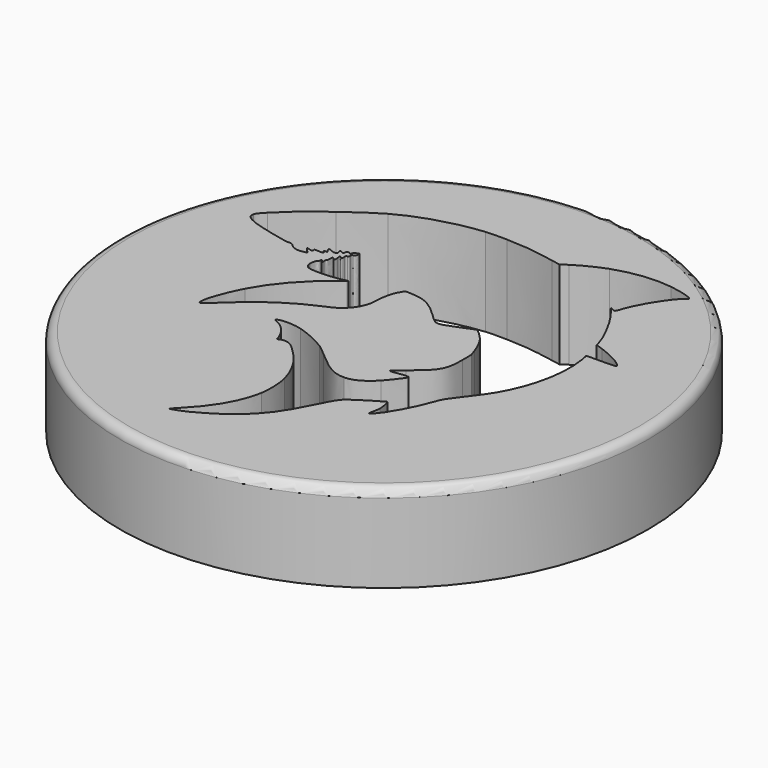
from build123d import *

# Parameters (mm, degrees)
EXTRUDE_DEPTH  = 10
CYLINDER_R     = 30
CYLINDER_DEPTH = 10
FILLET_R       = 1


with BuildPart() as extrude_body:
    # Sketch → Extrude (new body)
    with BuildSketch(Plane.XY):
        with BuildLine():
            add(Edge.make_bspline(
                [(22.984205, -48.652388), (25.133733, -46.478486), (26.399824, -44.244971), (26.804689, -41.912653)],
                knots=[0, 0, 0, 0, 1, 1, 1, 1], degree=3))
            add(Edge.make_bspline(
                [(26.804689, -41.912653), (26.970407, -40.957991), (26.90895, -39.400838), (26.669674, -38.491792)],
                knots=[0, 0, 0, 0, 1, 1, 1, 1], degree=3))
            add(Edge.make_bspline(
                [(26.669674, -38.491792), (26.336607, -37.226418), (25.74933, -36.053291), (24.916394, -34.989479)],
                knots=[0, 0, 0, 0, 1, 1, 1, 1], degree=3))
            add(Edge.make_bspline(
                [(24.916394, -34.989479), (24.347764, -34.263237), (23.176017, -33.132178), (22.81709, -32.96307)],
                knots=[0, 0, 0, 0, 1, 1, 1, 1], degree=3))
            add(Edge.make_bspline(
                [(22.81709, -32.96307), (22.423525, -32.777647), (21.947622, -32.743775), (21.680044, -32.882143)],
                knots=[0, 0, 0, 0, 1, 1, 1, 1], degree=3))
            add(Edge.make_bspline(
                [(21.680044, -32.882143), (21.408524, -33.022554), (21.385723, -33.022199), (21.385723, -32.877571)],
                knots=[0, 0, 0, 0, 1, 1, 1, 1], degree=3))
            add(Edge.make_bspline(
                [(21.385723, -32.877571), (21.385723, -32.813171), (21.258077, -32.49676), (21.102062, -32.17444)],
                knots=[0, 0, 0, 0, 1, 1, 1, 1], degree=3))
            add(Edge.make_bspline(
                [(21.102062, -32.17444), (20.724642, -31.394685), (20.076881, -30.724148), (19.377043, -30.388758)],
                knots=[0, 0, 0, 0, 1, 1, 1, 1], degree=3))
            add(Edge.make_bspline(
                [(19.377043, -30.388758), (18.895314, -30.157894), (18.885561, -30.148217), (19.056288, -30.070431)],
                knots=[0, 0, 0, 0, 1, 1, 1, 1], degree=3))
            add(Edge.make_bspline(
                [(19.056288, -30.070431), (19.585554, -29.829277), (20.747576, -29.84478), (21.769749, -30.106626)],
                knots=[0, 0, 0, 0, 1, 1, 1, 1], degree=3))
            add(Edge.make_bspline(
                [(21.769749, -30.106626), (22.703549, -30.345829), (24.236975, -31.036204), (25.166711, -31.635988)],
                knots=[0, 0, 0, 0, 1, 1, 1, 1], degree=3))
            add(Edge.make_bspline(
                [(25.166711, -31.635988), (25.422136, -31.800769), (26.013665, -32.275994), (26.481217, -32.692049)],
                knots=[0, 0, 0, 0, 1, 1, 1, 1], degree=3))
            add(Edge.make_bspline(
                [(26.481217, -32.692049), (28.501015, -34.489376), (29.45995, -35.021946), (30.669354, -35.018046)],
                knots=[0, 0, 0, 0, 1, 1, 1, 1], degree=3))
            add(Edge.make_bspline(
                [(30.669354, -35.018046), (31.617209, -35.014998), (32.620639, -34.472999), (33.614436, -33.427292)],
                knots=[0, 0, 0, 0, 1, 1, 1, 1], degree=3))
            add(Edge.make_bspline(
                [(33.614436, -33.427292), (34.108161, -32.907774), (35.05362, -31.678948), (35.128296, -31.459703)],
                knots=[0, 0, 0, 0, 1, 1, 1, 1], degree=3))
            add(Edge.make_bspline(
                [(35.128296, -31.459703), (35.175303, -31.321691), (34.744827, -31.302765), (34.100143, -31.414494)],
                knots=[0, 0, 0, 0, 1, 1, 1, 1], degree=3))
            add(Edge.make_bspline(
                [(34.100143, -31.414494), (33.293603, -31.554276), (33.024163, -31.561185), (33.061913, -31.441108)],
                knots=[0, 0, 0, 0, 1, 1, 1, 1], degree=3))
            add(Edge.make_bspline(
                [(33.061913, -31.441108), (33.077012, -31.393105), (33.558545, -30.977913), (34.132001, -30.518461)],
                knots=[0, 0, 0, 0, 1, 1, 1, 1], degree=3))
            add(Edge.make_bspline(
                [(34.132001, -30.518461), (36.486406, -28.632122), (36.783436, -28.106966), (36.779375, -25.837838)],
                knots=[0, 0, 0, 0, 1, 1, 1, 1], degree=3))
            add(Edge.make_bspline(
                [(36.779375, -25.837838), (36.777117, -24.581029)],
                knots=[0, 0, 4.453267, 4.453267], degree=1))
            add(Edge.make_bspline(
                [(36.777117, -24.581029), (36.514495, -23.815563)],
                knots=[0, 0, 2.86747, 2.86747], degree=1))
            add(Edge.make_bspline(
                [(36.514495, -23.815563), (36.207658, -22.921237), (35.79, -22.106293), (35.390032, -21.621477)],
                knots=[0, 0, 0, 0, 1, 1, 1, 1], degree=3))
            add(Edge.make_bspline(
                [(35.390032, -21.621477), (35.08182, -21.24788), (34.26519, -20.496407), (34.16742, -20.496407)],
                knots=[0, 0, 0, 0, 1, 1, 1, 1], degree=3))
            add(Edge.make_bspline(
                [(34.16742, -20.496407), (34.134205, -20.496407), (33.56174, -20.731424), (32.895272, -21.018665)],
                knots=[0, 0, 0, 0, 1, 1, 1, 1], degree=3))
            add(Edge.make_bspline(
                [(32.895272, -21.018665), (32.228804, -21.30591), (31.470823, -21.593413), (31.210868, -21.657565)],
                knots=[0, 0, 0, 0, 1, 1, 1, 1], degree=3))
            add(Edge.make_bspline(
                [(31.210868, -21.657565), (30.499456, -21.833121), (30.339019, -21.762227), (29.451613, -20.880184)],
                knots=[0, 0, 0, 0, 1, 1, 1, 1], degree=3))
            add(Edge.make_bspline(
                [(29.451613, -20.880184), (28.272291, -19.707985), (27.329002, -19.077563), (26.428636, -18.859865)],
                knots=[0, 0, 0, 0, 1, 1, 1, 1], degree=3))
            add(Edge.make_bspline(
                [(26.428636, -18.859865), (26.208794, -18.806711), (25.7054, -18.745949), (25.309978, -18.724839)],
                knots=[0, 0, 0, 0, 1, 1, 1, 1], degree=3))
            add(Edge.make_bspline(
                [(25.309978, -18.724839), (24.591031, -18.686459)],
                knots=[0, 0, 2.551077, 2.551077], degree=1))
            add(Edge.make_bspline(
                [(24.591031, -18.686459), (24.384588, -19.011988)],
                knots=[0, 0, 1.365842, 1.365842], degree=1))
            add(Edge.make_bspline(
                [(24.384588, -19.011988), (23.957468, -19.685486), (23.6969, -20.692015), (23.6923, -21.686177)],
                knots=[0, 0, 0, 0, 1, 1, 1, 1], degree=3))
            add(Edge.make_bspline(
                [(23.6923, -21.686177), (23.687869, -22.647169), (23.362684, -23.48205), (22.705804, -24.219056)],
                knots=[0, 0, 0, 0, 1, 1, 1, 1], degree=3))
            add(Edge.make_bspline(
                [(22.705804, -24.219056), (22.199155, -24.787502), (21.776581, -25.066355), (20.835689, -25.453115)],
                knots=[0, 0, 0, 0, 1, 1, 1, 1], degree=3))
            add(Edge.make_bspline(
                [(20.835689, -25.453115), (18.171165, -26.548388), (15.491182, -28.346332), (13.251373, -30.541276)],
                knots=[0, 0, 0, 0, 1, 1, 1, 1], degree=3))
            add(Edge.make_bspline(
                [(13.251373, -30.541276), (12.198507, -31.573052), (11.919926, -31.807681), (11.747754, -31.807681)],
                knots=[0, 0, 0, 0, 1, 1, 1, 1], degree=3))
            add(Edge.make_bspline(
                [(11.747754, -31.807681), (11.271924, -31.807681), (12.013879, -29.374073), (13.14806, -27.21469)],
                knots=[0, 0, 0, 0, 1, 1, 1, 1], degree=3))
            add(Edge.make_bspline(
                [(13.14806, -27.21469), (14.464611, -24.708094), (16.510625, -22.440887), (19.293206, -20.405201)],
                knots=[0, 0, 0, 0, 1, 1, 1, 1], degree=3))
            add(Edge.make_bspline(
                [(19.293206, -20.405201), (19.39235, -20.33267), (19.415196, -20.294076), (19.346978, -20.314359)],
                knots=[0, 0, 0, 0, 1, 1, 1, 1], degree=3))
            add(Edge.make_bspline(
                [(19.346978, -20.314359), (18.259963, -20.637617), (16.181673, -20.778739), (15.250577, -20.592517)],
                knots=[0, 0, 0, 0, 1, 1, 1, 1], degree=3))
            add(Edge.make_bspline(
                [(15.250577, -20.592517), (14.873847, -20.517173), (14.641878, -20.237914), (14.622044, -19.835851)],
                knots=[0, 0, 0, 0, 1, 1, 1, 1], degree=3))
            add(Edge.make_bspline(
                [(14.622044, -19.835851), (14.605268, -19.495802), (14.776991, -18.960308), (14.90281, -18.960308)],
                knots=[0, 0, 0, 0, 1, 1, 1, 1], degree=3))
            add(Edge.make_bspline(
                [(14.90281, -18.960308), (14.935379, -18.960308), (14.962028, -18.899322), (14.962028, -18.824782)],
                knots=[0, 0, 0, 0, 1, 1, 1, 1], degree=3))
            add(Edge.make_bspline(
                [(14.962028, -18.824782), (14.962028, -18.636943), (15.08241, -18.580149), (15.134263, -18.743519)],
                knots=[0, 0, 0, 0, 1, 1, 1, 1], degree=3))
            add(Edge.make_bspline(
                [(15.134263, -18.743519), (15.157715, -18.817413), (15.219038, -18.912841), (15.270535, -18.955581)],
                knots=[0, 0, 0, 0, 1, 1, 1, 1], degree=3))
            add(Edge.make_bspline(
                [(15.270535, -18.955581), (15.347224, -19.019225), (15.357725, -18.976155), (15.328573, -18.717506)],
                knots=[0, 0, 0, 0, 1, 1, 1, 1], degree=3))
            add(Edge.make_bspline(
                [(15.328573, -18.717506), (15.304996, -18.508309), (15.319604, -18.401725), (15.371885, -18.401725)],
                knots=[0, 0, 0, 0, 1, 1, 1, 1], degree=3))
            add(Edge.make_bspline(
                [(15.371885, -18.401725), (15.419657, -18.401725), (15.450787, -18.268578), (15.450787, -18.064249)],
                knots=[0, 0, 0, 0, 1, 1, 1, 1], degree=3))
            add(Edge.make_bspline(
                [(15.450787, -18.064249), (15.450787, -17.652589), (15.498643, -17.592856), (15.667504, -17.793745)],
                knots=[0, 0, 0, 0, 1, 1, 1, 1], degree=3))
            add(Edge.make_bspline(
                [(15.667504, -17.793745), (15.84774, -18.008166), (15.92618, -17.864295), (15.869582, -17.423114)],
                knots=[0, 0, 0, 0, 1, 1, 1, 1], degree=3))
            add(Edge.make_bspline(
                [(15.869582, -17.423114), (15.820517, -17.040644), (15.833571, -17.020733), (16.021754, -17.191037)],
                knots=[0, 0, 0, 0, 1, 1, 1, 1], degree=3))
            add(Edge.make_bspline(
                [(16.021754, -17.191037), (16.189296, -17.342661), (16.249498, -17.271679), (16.230236, -16.94523)],
                knots=[0, 0, 0, 0, 1, 1, 1, 1], degree=3))
            add(Edge.make_bspline(
                [(16.230236, -16.94523), (16.2163, -16.709154), (16.232324, -16.680167), (16.373799, -16.685298)],
                knots=[0, 0, 0, 0, 1, 1, 1, 1], degree=3))
            add(Edge.make_bspline(
                [(16.373799, -16.685298), (16.516851, -16.690462), (16.530631, -16.663764), (16.509361, -16.422554)],
                knots=[0, 0, 0, 0, 1, 1, 1, 1], degree=3))
            add(Edge.make_bspline(
                [(16.509361, -16.422554), (16.488378, -16.18459), (16.500954, -16.158885), (16.619885, -16.196633)],
                knots=[0, 0, 0, 0, 1, 1, 1, 1], degree=3))
            add(Edge.make_bspline(
                [(16.619885, -16.196633), (16.764177, -16.242429), (16.917064, -16.010174), (16.917064, -15.745179)],
                knots=[0, 0, 0, 0, 1, 1, 1, 1], degree=3))
            add(Edge.make_bspline(
                [(16.917064, -15.745179), (16.917064, -15.582619), (16.908174, -15.581484), (16.610075, -15.706037)],
                knots=[0, 0, 0, 0, 1, 1, 1, 1], degree=3))
            add(Edge.make_bspline(
                [(16.610075, -15.706037), (16.455222, -15.770739), (16.361449, -15.86678), (16.329728, -15.993167)],
                knots=[0, 0, 0, 0, 1, 1, 1, 1], degree=3))
            add(Edge.make_bspline(
                [(16.329728, -15.993167), (16.285701, -16.168583), (16.272796, -16.174687), (16.160598, -16.073149)],
                knots=[0, 0, 0, 0, 1, 1, 1, 1], degree=3))
            add(Edge.make_bspline(
                [(16.160598, -16.073149), (15.970996, -15.901561), (15.730078, -15.998939), (15.730078, -16.247159)],
                knots=[0, 0, 0, 0, 1, 1, 1, 1], degree=3))
            add(Edge.make_bspline(
                [(15.730078, -16.247159), (15.730078, -16.449608), (15.729316, -16.449927), (15.524078, -16.343749)],
                knots=[0, 0, 0, 0, 1, 1, 1, 1], degree=3))
            add(Edge.make_bspline(
                [(15.524078, -16.343749), (15.242216, -16.197993), (15.146126, -16.207761), (15.198265, -16.376868)],
                knots=[0, 0, 0, 0, 1, 1, 1, 1], degree=3))
            add(Edge.make_bspline(
                [(15.198265, -16.376868), (15.221946, -16.453672), (15.259607, -16.575197), (15.281958, -16.646924)],
                knots=[0, 0, 0, 0, 1, 1, 1, 1], degree=3))
            add(Edge.make_bspline(
                [(15.281958, -16.646924), (15.345551, -16.850982), (14.993693, -16.888421), (14.632009, -16.716082)],
                knots=[0, 0, 0, 0, 1, 1, 1, 1], degree=3))
            add(Edge.make_bspline(
                [(14.632009, -16.716082), (14.184274, -16.502736), (14.079231, -16.559525), (14.306065, -16.892296)],
                knots=[0, 0, 0, 0, 1, 1, 1, 1], degree=3))
            add(Edge.make_bspline(
                [(14.306065, -16.892296), (14.490825, -17.163342)],
                knots=[0, 0, 1.162305, 1.162305], degree=1))
            add(Edge.make_bspline(
                [(14.490825, -17.163342), (14.272579, -17.13131)],
                knots=[0, 0, 0.781598, 0.781598], degree=1))
            add(Edge.make_bspline(
                [(14.272579, -17.13131), (14.034679, -17.096397), (13.995717, -17.149006), (14.159069, -17.284563)],
                knots=[0, 0, 0, 0, 1, 1, 1, 1], degree=3))
            add(Edge.make_bspline(
                [(14.159069, -17.284563), (14.369792, -17.45945), (14.265109, -17.509361), (13.742876, -17.482987)],
                knots=[0, 0, 0, 0, 1, 1, 1, 1], degree=3))
            add(Edge.make_bspline(
                [(13.742876, -17.482987), (13.230915, -17.457136), (13.222635, -17.459394), (13.261687, -17.615002)],
                knots=[0, 0, 0, 0, 1, 1, 1, 1], degree=3))
            add(Edge.make_bspline(
                [(13.261687, -17.615002), (13.308891, -17.803078), (13.184857, -17.818208), (12.78007, -17.67375)],
                knots=[0, 0, 0, 0, 1, 1, 1, 1], degree=3))
            add(Edge.make_bspline(
                [(12.78007, -17.67375), (12.63606, -17.622357), (12.518235, -17.599091), (12.518235, -17.62205)],
                knots=[0, 0, 0, 0, 1, 1, 1, 1], degree=3))
            add(Edge.make_bspline(
                [(12.518235, -17.62205), (12.518235, -17.644994), (12.663728, -17.811505), (12.841553, -17.992049)],
                knots=[0, 0, 0, 0, 1, 1, 1, 1], degree=3))
            add(Edge.make_bspline(
                [(12.841553, -17.992049), (13.164875, -18.320301)],
                knots=[0, 0, 1.632565, 1.632565], degree=1))
            add(Edge.make_bspline(
                [(13.164875, -18.320301), (12.893922, -18.395536)],
                knots=[0, 0, 0.996393, 0.996393], degree=1))
            add(Edge.make_bspline(
                [(12.893922, -18.395536), (12.253264, -18.573421), (11.520704, -18.439749), (11.301324, -18.104935)],
                knots=[0, 0, 0, 0, 1, 1, 1, 1], degree=3))
            add(Edge.make_bspline(
                [(11.301324, -18.104935), (11.177896, -17.91656), (10.801606, -17.774018), (10.552061, -17.821109)],
                knots=[0, 0, 0, 0, 1, 1, 1, 1], degree=3))
            add(Edge.make_bspline(
                [(10.552061, -17.821109), (10.245154, -17.879027), (6.798237, -17.053262), (5.977714, -16.725252)],
                knots=[0, 0, 0, 0, 1, 1, 1, 1], degree=3))
            add(Edge.make_bspline(
                [(5.977714, -16.725252), (4.981458, -16.326988), (4.707378, -16.05814), (4.799112, -15.569151)],
                knots=[0, 0, 0, 0, 1, 1, 1, 1], degree=3))
            add(Edge.make_bspline(
                [(4.799112, -15.569151), (4.837686, -15.363538), (5.003387, -15.14947), (5.593391, -14.543039)],
                knots=[0, 0, 0, 0, 1, 1, 1, 1], degree=3))
            add(Edge.make_bspline(
                [(5.593391, -14.543039), (6.908382, -13.19144), (7.984579, -12.282021), (10.248996, -10.608912)],
                knots=[0, 0, 0, 0, 1, 1, 1, 1], degree=3))
            add(Edge.make_bspline(
                [(10.248996, -10.608912), (11.898264, -9.390322), (13.016861, -8.635365), (14.054333, -8.040632)],
                knots=[0, 0, 0, 0, 1, 1, 1, 1], degree=3))
            add(Edge.make_bspline(
                [(14.054333, -8.040632), (16.41299, -6.688531), (19.785996, -5.667593), (22.98219, -5.338354)],
                knots=[0, 0, 0, 0, 1, 1, 1, 1], degree=3))
            add(Edge.make_bspline(
                [(22.98219, -5.338354), (23.483749, -5.286689), (24.370037, -5.270858), (25.391072, -5.295325)],
                knots=[0, 0, 0, 0, 1, 1, 1, 1], degree=3))
            add(Edge.make_bspline(
                [(25.391072, -5.295325), (27.370502, -5.342757), (28.624005, -5.486896), (31.056157, -5.946754)],
                knots=[0, 0, 0, 0, 1, 1, 1, 1], degree=3))
            add(Edge.make_bspline(
                [(31.056157, -5.946754), (32.033673, -6.131577)],
                knots=[0, 0, 3.525007, 3.525007], degree=1))
            add(Edge.make_bspline(
                [(32.033673, -6.131577), (32.731902, -5.656937)],
                knots=[0, 0, 2.991539, 2.991539], degree=1))
            add(Edge.make_bspline(
                [(32.731902, -5.656937), (33.520261, -5.121026), (35.07372, -4.345054), (36.013565, -4.017704)],
                knots=[0, 0, 0, 0, 1, 1, 1, 1], degree=3))
            add(Edge.make_bspline(
                [(36.013565, -4.017704), (38.191065, -3.259276), (40.348487, -3.014489), (42.451133, -3.287282)],
                knots=[0, 0, 0, 0, 1, 1, 1, 1], degree=3))
            add(Edge.make_bspline(
                [(42.451133, -3.287282), (43.738622, -3.454319), (45.125426, -3.869238), (45.125426, -4.087402)],
                knots=[0, 0, 0, 0, 1, 1, 1, 1], degree=3))
            add(Edge.make_bspline(
                [(45.125426, -4.087402), (45.125426, -4.123876), (45.027446, -4.225353), (44.907691, -4.312908)],
                knots=[0, 0, 0, 0, 1, 1, 1, 1], degree=3))
            add(Edge.make_bspline(
                [(44.907691, -4.312908), (43.954748, -5.009625), (42.178328, -7.8543), (41.701833, -9.446616)],
                knots=[0, 0, 0, 0, 1, 1, 1, 1], degree=3))
            add(Edge.make_bspline(
                [(41.701833, -9.446616), (41.515205, -10.070268), (41.440306, -10.12669), (41.075712, -9.918269)],
                knots=[0, 0, 0, 0, 1, 1, 1, 1], degree=3))
            add(Edge.make_bspline(
                [(41.075712, -9.918269), (40.766907, -9.741739), (40.776198, -9.805456), (41.113899, -10.180104)],
                knots=[0, 0, 0, 0, 1, 1, 1, 1], degree=3))
            add(Edge.make_bspline(
                [(41.113899, -10.180104), (42.196472, -11.381123), (43.742336, -14.191396), (44.182515, -15.758638)],
                knots=[0, 0, 0, 0, 1, 1, 1, 1], degree=3))
            add(Edge.make_bspline(
                [(44.182515, -15.758638), (44.293231, -16.152835)],
                knots=[0, 0, 1.450806, 1.450806], degree=1))
            add(Edge.make_bspline(
                [(44.293231, -16.152835), (45.14572, -16.443947)],
                knots=[0, 0, 3.191896, 3.191896], degree=1))
            add(Edge.make_bspline(
                [(45.14572, -16.443947), (46.033848, -16.747231), (47.231585, -17.337287), (47.78892, -17.7461)],
                knots=[0, 0, 0, 0, 1, 1, 1, 1], degree=3))
            add(Edge.make_bspline(
                [(47.78892, -17.7461), (48.114774, -17.98512), (48.231781, -18.150327), (48.158821, -18.268381)],
                knots=[0, 0, 0, 0, 1, 1, 1, 1], degree=3))
            add(Edge.make_bspline(
                [(48.158821, -18.268381), (48.137033, -18.303619), (47.387454, -18.331903), (46.475379, -18.331903)],
                knots=[0, 0, 0, 0, 1, 1, 1, 1], degree=3))
            add(Edge.make_bspline(
                [(46.475379, -18.331903), (44.986166, -18.331903), (44.835301, -18.3426), (44.874747, -18.445396)],
                knots=[0, 0, 0, 0, 1, 1, 1, 1], degree=3))
            add(Edge.make_bspline(
                [(44.874747, -18.445396), (44.974149, -18.704437), (45.118703, -19.748399), (45.163576, -20.531318)],
                knots=[0, 0, 0, 0, 1, 1, 1, 1], degree=3))
            add(Edge.make_bspline(
                [(45.163576, -20.531318), (45.290348, -22.743166), (44.721213, -25.450256), (43.666269, -27.653229)],
                knots=[0, 0, 0, 0, 1, 1, 1, 1], degree=3))
            add(Edge.make_bspline(
                [(43.666269, -27.653229), (43.105222, -28.824834), (42.71991, -29.418684), (41.342623, -31.234476)],
                knots=[0, 0, 0, 0, 1, 1, 1, 1], degree=3))
            add(Edge.make_bspline(
                [(41.342623, -31.234476), (40.165638, -32.786199), (40.133758, -32.837281), (39.851917, -33.623069)],
                knots=[0, 0, 0, 0, 1, 1, 1, 1], degree=3))
            add(Edge.make_bspline(
                [(39.851917, -33.623069), (39.294935, -35.175966), (38.535305, -36.70657), (37.694433, -37.970254)],
                knots=[0, 0, 0, 0, 1, 1, 1, 1], degree=3))
            add(Edge.make_bspline(
                [(37.694433, -37.970254), (37.272928, -38.603699), (36.787551, -39.121994), (36.719284, -39.011535)],
                knots=[0, 0, 0, 0, 1, 1, 1, 1], degree=3))
            add(Edge.make_bspline(
                [(36.719284, -39.011535), (36.69538, -38.97284), (36.722699, -38.742197), (36.780044, -38.498994)],
                knots=[0, 0, 0, 0, 1, 1, 1, 1], degree=3))
            add(Edge.make_bspline(
                [(36.780044, -38.498994), (36.837377, -38.255792), (36.884751, -37.87449), (36.885318, -37.651659)],
                knots=[0, 0, 0, 0, 1, 1, 1, 1], degree=3))
            add(Edge.make_bspline(
                [(36.885318, -37.651659), (36.886447, -37.219258), (36.700234, -36.276331), (36.613753, -36.276331)],
                knots=[0, 0, 0, 0, 1, 1, 1, 1], degree=3))
            add(Edge.make_bspline(
                [(36.613753, -36.276331), (36.535854, -36.276331), (34.993442, -37.206436), (34.198176, -37.73297)],
                knots=[0, 0, 0, 0, 1, 1, 1, 1], degree=3))
            add(Edge.make_bspline(
                [(34.198176, -37.73297), (33.066366, -38.482326), (32.98258, -38.589876), (32.014916, -40.535516)],
                knots=[0, 0, 0, 0, 1, 1, 1, 1], degree=3))
            add(Edge.make_bspline(
                [(32.014916, -40.535516), (30.814634, -42.948871), (30.06589, -44.102082), (28.898619, -45.335224)],
                knots=[0, 0, 0, 0, 1, 1, 1, 1], degree=3))
            add(Edge.make_bspline(
                [(28.898619, -45.335224), (27.771018, -46.526456), (25.959044, -47.8116), (24.07389, -48.757163)],
                knots=[0, 0, 0, 0, 1, 1, 1, 1], degree=3))
            add(Edge.make_bspline(
                [(24.07389, -48.757163), (23.440826, -49.074697), (22.554437, -49.402997), (22.330183, -49.402997)],
                knots=[0, 0, 0, 0, 1, 1, 1, 1], degree=3))
            add(Edge.make_bspline(
                [(22.330183, -49.402997), (22.281691, -49.402997), (22.575998, -49.065231), (22.984196, -48.652402)],
                knots=[0, 0, 0, 0, 1, 1, 1, 1], degree=3))
            add(Edge.make_bspline(
                [(22.984196, -48.652402), (22.984205, -48.652388)],
                knots=[0, 0, 5.8e-05, 5.8e-05], degree=1))
        make_face()
    extrude(amount=EXTRUDE_DEPTH)


with BuildPart() as extrude_body_1:
    # Extrude placement: moved
    add(extrude_body.part.moved(Location((-28, 26, 0))))


with BuildPart() as fillet_body:
    # Cylinder → Cylinder (new body)
    with BuildSketch(Plane.XY):
        Circle(CYLINDER_R)
    extrude(amount=CYLINDER_DEPTH)

    # Cut: cut Extrude body
    add(extrude_body_1.part, mode=Mode.SUBTRACT)

    # Fillet
    fillet_edges = [fillet_body.edges().sort_by_distance(p)[0] for p in [
        (-30, 0, 10),
    ]]
    fillet(fillet_edges, radius=FILLET_R)


solid = fillet_body.part
